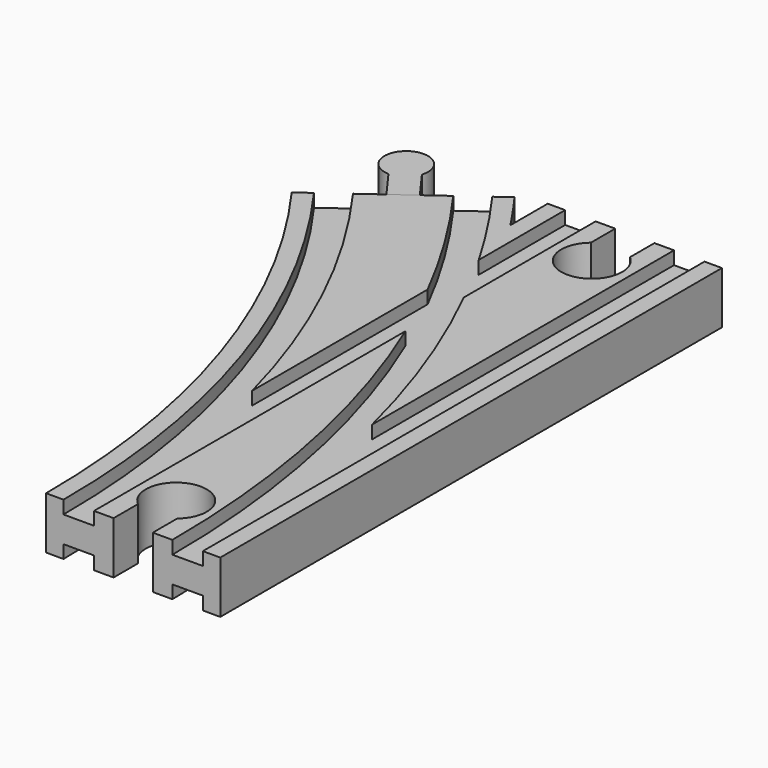
from build123d import *

# Parameters (mm, degrees)
SKETCH004_W          = 7
SKETCH004_H          = 3
SKETCH005_W          = 7
SKETCH005_H          = 3
SKETCH009_W          = 7
SKETCH009_H          = 3
SKETCH010_W          = 7
SKETCH010_H          = 3
POCKET_DEPTH         = 6.001
POCKET_DEPTH_BACK    = -6.001
POCKET001_DEPTH      = 6.001
POCKET001_DEPTH_BACK = -6.001
PAD002_DEPTH         = 6


with BuildPart() as body:
    # AdditivePipe: sweep along a path in Sketch002
    with BuildLine(Plane.XY) as additivepipe_path:
        ThreePointArc((0, 0), (-10.865453, 68.601773), (-42.398227, 130.488326))
    # Sketch → AdditivePipe (sweep)
    with BuildSketch(Plane.XZ):
        Polygon((-20, 6), (-20, -6), (-16, -6), (-16, -3), (-9, -3), (-9, -6), (9, -6), (9, -3), (16, -3), (16, -6), (20, -6), (20, 6), (16, 6), (16, 3), (9, 3), (9, 6), (-9, 6), (-9, 3), (-16, 3), (-16, 6), align=None)
    sweep(path=additivepipe_path.line)

    # AdditivePipe001: sweep along a path in Sketch001
    with BuildLine(Plane.XY) as additivepipe001_path:
        Line((0, 0), (0, 144))
    # Sketch → AdditivePipe001 (sweep)
    with BuildSketch(Plane.XZ):
        Polygon((-20, 6), (-20, -6), (-16, -6), (-16, -3), (-9, -3), (-9, -6), (9, -6), (9, -3), (16, -3), (16, -6), (20, -6), (20, 6), (16, 6), (16, 3), (9, 3), (9, 6), (-9, 6), (-9, 3), (-16, 3), (-16, 6), align=None)
    sweep(path=additivepipe001_path.line)

    # SubtractivePipe: sweep along a path in Sketch001
    with BuildLine(Plane.XY) as subtractivepipe_path:
        Line((0, 0), (0, 144))
    # Sketch004 → SubtractivePipe (sweep, cut)
    with BuildSketch(Plane.XZ):
        with Locations((-12.5, 4.5)):
            Rectangle(SKETCH004_W, SKETCH004_H)
    sweep(path=subtractivepipe_path.line, mode=Mode.SUBTRACT)

    # SubtractivePipe001: sweep along a path in Sketch002
    with BuildLine(Plane.XY) as subtractivepipe001_path:
        ThreePointArc((0, 0), (-10.865453, 68.601773), (-42.398227, 130.488326))
    # Sketch004 → SubtractivePipe001 (sweep, cut)
    with BuildSketch(Plane.XZ):
        with Locations((-12.5, 4.5)):
            Rectangle(SKETCH004_W, SKETCH004_H)
    sweep(path=subtractivepipe001_path.line, mode=Mode.SUBTRACT)

    # SubtractivePipe002: sweep along a path in Sketch002
    with BuildLine(Plane.XY) as subtractivepipe002_path:
        ThreePointArc((0, 0), (-10.865453, 68.601773), (-42.398227, 130.488326))
    # Sketch005 (on Face1 of SubtractivePipe001) → SubtractivePipe002 (sweep, cut)
    with BuildSketch(Plane.XZ):
        with Locations((12.5, 4.5)):
            Rectangle(SKETCH005_W, SKETCH005_H)
    sweep(path=subtractivepipe002_path.line, mode=Mode.SUBTRACT)

    # SubtractivePipe003: sweep along a path in Sketch001
    with BuildLine(Plane.XY) as subtractivepipe003_path:
        Line((0, 0), (0, 144))
    # Sketch005 (on Face1 of SubtractivePipe001) → SubtractivePipe003 (sweep, cut)
    with BuildSketch(Plane.XZ):
        with Locations((12.5, 4.5)):
            Rectangle(SKETCH005_W, SKETCH005_H)
    subtractivepipe003 = sweep(path=subtractivepipe003_path.line, mode=Mode.SUBTRACT)

    # Mirrored: SubtractivePipe003 across XY
    add(subtractivepipe003.mirror(Plane.XY), mode=Mode.SUBTRACT)

    # SubtractivePipe004: sweep along a path in Sketch002
    with BuildLine(Plane.XY) as subtractivepipe004_path:
        ThreePointArc((0, 0), (-10.865453, 68.601773), (-42.398227, 130.488326))
    # Sketch009 → SubtractivePipe004 (sweep, cut)
    with BuildSketch(Plane.XZ):
        with Locations((-12.5, -4.5)):
            Rectangle(SKETCH009_W, SKETCH009_H)
    sweep(path=subtractivepipe004_path.line, mode=Mode.SUBTRACT)

    # SubtractivePipe005: sweep along a path in Sketch001
    with BuildLine(Plane.XY) as subtractivepipe005_path:
        Line((0, 0), (0, 144))
    # Sketch009 → SubtractivePipe005 (sweep, cut)
    with BuildSketch(Plane.XZ):
        with Locations((-12.5, -4.5)):
            Rectangle(SKETCH009_W, SKETCH009_H)
    sweep(path=subtractivepipe005_path.line, mode=Mode.SUBTRACT)

    # SubtractivePipe006: sweep along a path in Sketch002
    with BuildLine(Plane.XY) as subtractivepipe006_path:
        ThreePointArc((0, 0), (-10.865453, 68.601773), (-42.398227, 130.488326))
    # Sketch010 (on Face1 of SubtractivePipe005) → SubtractivePipe006 (sweep, cut)
    with BuildSketch(Plane.XZ):
        with Locations((12.5, -4.5)):
            Rectangle(SKETCH010_W, SKETCH010_H)
    sweep(path=subtractivepipe006_path.line, mode=Mode.SUBTRACT)

    # Sketch013 → Pocket (cut, two sides)
    with BuildSketch(Plane.XY) as pocket_sk:
        with BuildLine():
            Line((-4.5, 144), (4.5, 144))
            Line((4.5, 144), (4.5, 137))
            ThreePointArc((-4.5, 137), (0, 124.638097), (4.5, 137))
            Line((-4.5, 144), (-4.5, 137))
        make_face()
    extrude(amount=-POCKET_DEPTH, mode=Mode.SUBTRACT)
    extrude(pocket_sk.sketch, amount=-POCKET_DEPTH_BACK, mode=Mode.SUBTRACT)

    # Sketch014 → Pocket001 (cut, two sides)
    with BuildSketch(Plane.XY) as pocket001_sk:
        with BuildLine():
            Line((-4.5, 0), (4.5, 0))
            Line((4.5, 0), (4.5, 7))
            ThreePointArc((4.5, 7), (0, 19.361903), (-4.5, 7))
            Line((-4.5, 0), (-4.5, 7))
        make_face()
    extrude(amount=-POCKET001_DEPTH, mode=Mode.SUBTRACT)
    extrude(pocket001_sk.sketch, amount=-POCKET001_DEPTH_BACK, mode=Mode.SUBTRACT)


with BuildPart() as body003:
    # Sketch012 → Pad002 (new body, symmetric)
    with BuildSketch(Plane.XY):
        with BuildLine():
            Line((-44.825278, 128.72497), (-39.971176, 132.251682))
            Line((-39.971176, 132.251682), (-44.673458, 138.723818))
            ThreePointArc((-44.673458, 138.723818), (-52.390577, 144.241615), (-49.52756, 135.197106))
            Line((-44.825278, 128.72497), (-49.52756, 135.197106))
        make_face()
    extrude(amount=PAD002_DEPTH, both=True)


solid = Compound([body.part, body003.part])
